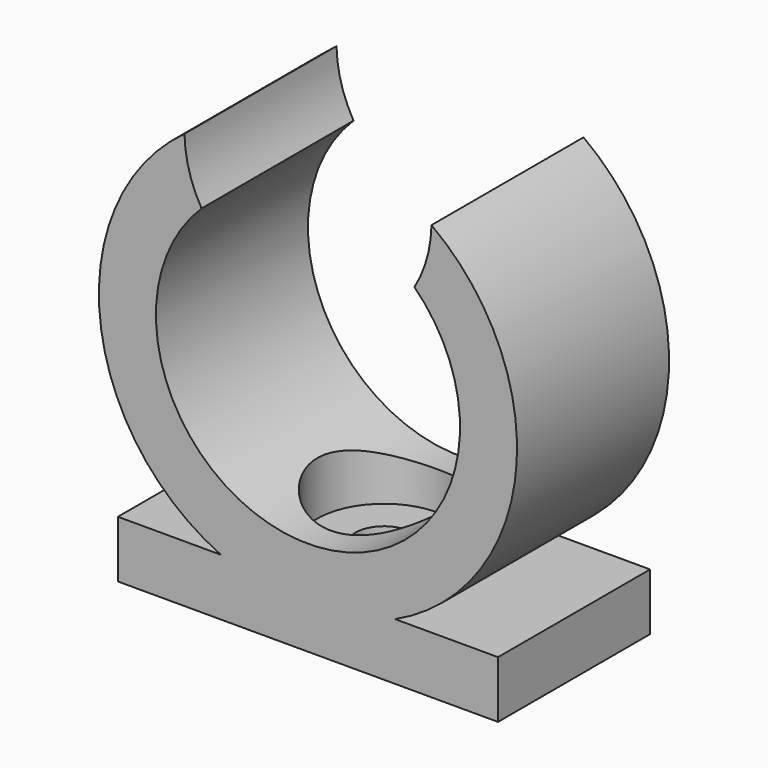
from build123d import *

# Parameters (mm, degrees)
F0_W     = 20
F0_H     = 10
F1_DEPTH = 3
F3_DEPTH = 5
F4_R     = 1.5
F5_DEPTH = 12.5
F6_R     = 3.5
F7_DEPTH = 25


with BuildPart() as f1:
    # F0 (on Top) → F1 (new body)
    with BuildSketch(Plane.XY):
        Rectangle(F0_W, F0_H)
    extrude(amount=F1_DEPTH)

    # F2 (on Front) → F3 (join, symmetric)
    with BuildSketch(Plane.XZ):
        with BuildLine():
            ThreePointArc((5.602103, 18.71108), (0, 5), (-5.602103, 18.71108))
            ThreePointArc((-5.602103, 18.71108), (-6.253786, 20.235457), (-6.498651, 21.875107))
            ThreePointArc((-6.498651, 21.875107), (0, 2), (6.498651, 21.875107))
            ThreePointArc((6.498651, 21.875107), (6.253786, 20.235457), (5.602103, 18.71108))
        make_face()
    extrude(amount=F3_DEPTH, both=True)

    # F4 (on face) → F5 (cut, symmetric)
    with BuildSketch(Plane.XY.offset(3)):
        Circle(F4_R)
    extrude(amount=F5_DEPTH, both=True, mode=Mode.SUBTRACT)

    # F6 (on face) → F7 (cut)
    with BuildSketch(Plane.XY.offset(3)):
        Circle(F6_R)
    extrude(amount=F7_DEPTH, mode=Mode.SUBTRACT)


solid = f1.part
